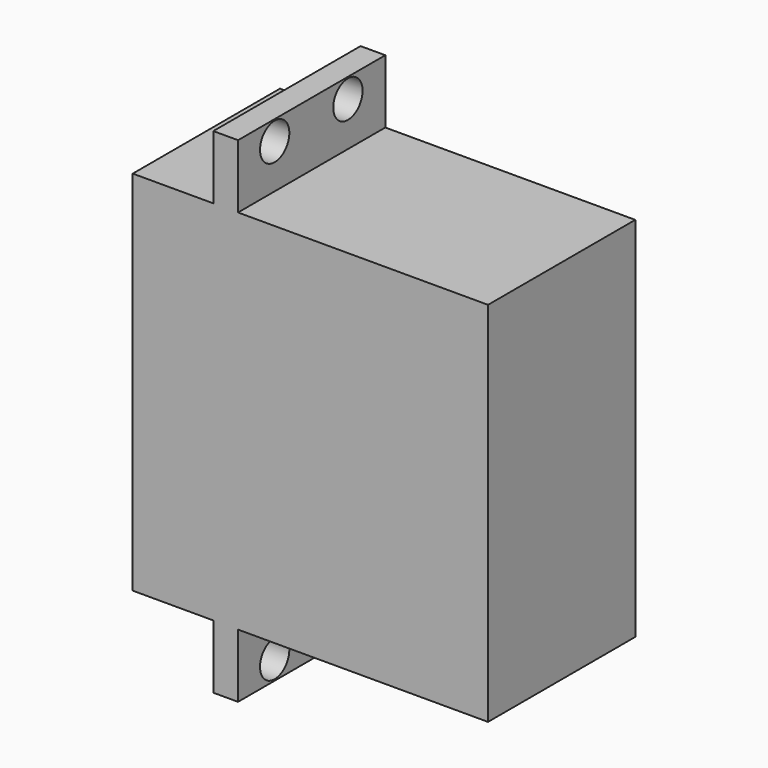
from build123d import *

# Parameters (mm, degrees)
CYLINDER174_R          = 2
CYLINDER174_DEPTH      = 20
CYLINDER173_R          = 2
CYLINDER173_DEPTH      = 20
CYLINDER171_R          = 2
CYLINDER171_DEPTH      = 20
CYLINDER172_R          = 2
CYLINDER172_DEPTH      = 20
BOX075_W               = 38.8
BOX075_H               = 40.1
BOX075_DEPTH           = 20.1
BOX223_W               = 2.7
BOX223_H               = 54
BOX223_DEPTH           = 20.1
CUT127_PLACEMENT_ANGLE = 90


with BuildPart() as cylinder174:
    # Cylinder174 → Cylinder174 (new body)
    with BuildSketch(Plane(origin=(-97.2, 2.2, 5), x_dir=(0, 0, -1), z_dir=(1, 0, 0))):
        Circle(CYLINDER174_R)
    extrude(amount=CYLINDER174_DEPTH)


with BuildPart() as cylinder173:
    # Cylinder173 → Cylinder173 (new body)
    with BuildSketch(Plane(origin=(-97.2, 2.2, 15), x_dir=(0, 0, -1), z_dir=(1, 0, 0))):
        Circle(CYLINDER173_R)
    extrude(amount=CYLINDER173_DEPTH)


with BuildPart() as cylinder171:
    # Cylinder171 → Cylinder171 (new body)
    with BuildSketch(Plane(origin=(-97.2, 51.9, 5), x_dir=(0, 0, -1), z_dir=(1, 0, 0))):
        Circle(CYLINDER171_R)
    extrude(amount=CYLINDER171_DEPTH)


with BuildPart() as cylinder172:
    # Cylinder172 → Cylinder172 (new body)
    with BuildSketch(Plane(origin=(-97.2, 51.9, 15), x_dir=(0, 0, -1), z_dir=(1, 0, 0))):
        Circle(CYLINDER172_R)
    extrude(amount=CYLINDER172_DEPTH)


with BuildPart() as box075:
    # Box075 → Box075 (new body)
    with BuildSketch(Plane(origin=(82, -93, 0), x_dir=(1, 0, 0), z_dir=(0, 0, 1))):
        with Locations((19.4, 20.05)):
            Rectangle(BOX075_W, BOX075_H)
    extrude(amount=BOX075_DEPTH)


with BuildPart() as cut127:
    # Box223 → Box223 (new body)
    with BuildSketch(Plane(origin=(90.8, -99.95, 0), x_dir=(1, 0, 0), z_dir=(0, 0, 1))):
        with Locations((1.35, 27)):
            Rectangle(BOX223_W, BOX223_H)
    extrude(amount=BOX223_DEPTH)

    # Fusion085: union Box075
    add(box075.part)


with BuildPart() as cut127_1:
    # Fusion085 placement: moved
    add(cut127.part.moved(Location((-188, 100, 0))))

    # Cut124: cut Cylinder172
    add(cylinder172.part, mode=Mode.SUBTRACT)

    # Cut125: cut Cylinder171
    add(cylinder171.part, mode=Mode.SUBTRACT)

    # Cut126: cut Cylinder173
    add(cylinder173.part, mode=Mode.SUBTRACT)

    # Cut127: cut Cylinder174
    add(cylinder174.part, mode=Mode.SUBTRACT)


with BuildPart() as cut127_2:
    # Cut127 placement: moved
    add(cut127_1.part.moved(Location((4, 24.9, 47.1))).rotate(Axis((4, 24.9, 47.1), (-1, 0, 0)), CUT127_PLACEMENT_ANGLE))


solid = cut127_2.part
